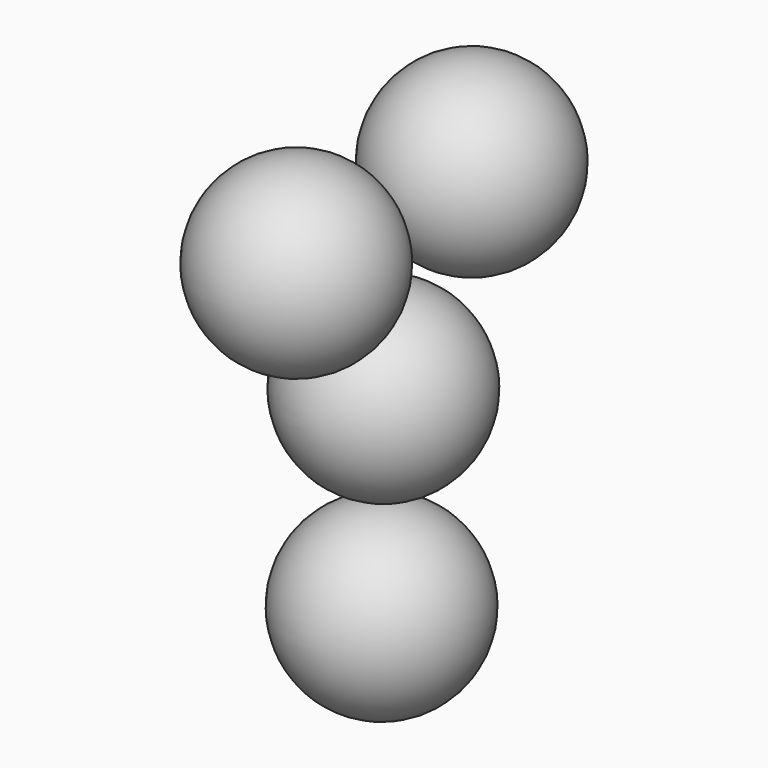
from build123d import *


with BuildPart() as f1:
    # F0 (on Top) → F1 (revolve)
    with BuildSketch(Plane.XY):
        with BuildLine():
            Line((0, -30.848408), (0, 30.848408))
            ThreePointArc((0, 30.848408), (-30.848408, 0), (0, -30.848408))
        make_face()
    revolve(axis=Axis((0, 0, 0), (0, -1, 0)))


with BuildPart() as f1_1:
    # F2: moved
    add(f1.part.moved(Location((0, 37.338, 104.14))))


with BuildPart() as f3_1:
    # F3: instance of F1
    add(f1_1.part.mirror(Plane.XZ))


with BuildPart() as f4_1:
    # F4: copy of F1
    add(f1_1.part.moved(Location((0, -37.592, -52.578))))


with BuildPart() as f5_1:
    # F5: copy of F4_1
    add(f4_1.part.moved(Location((0, -0.762, -65.024))))


solid = Compound([f1_1.part, f3_1.part, f4_1.part, f5_1.part])
